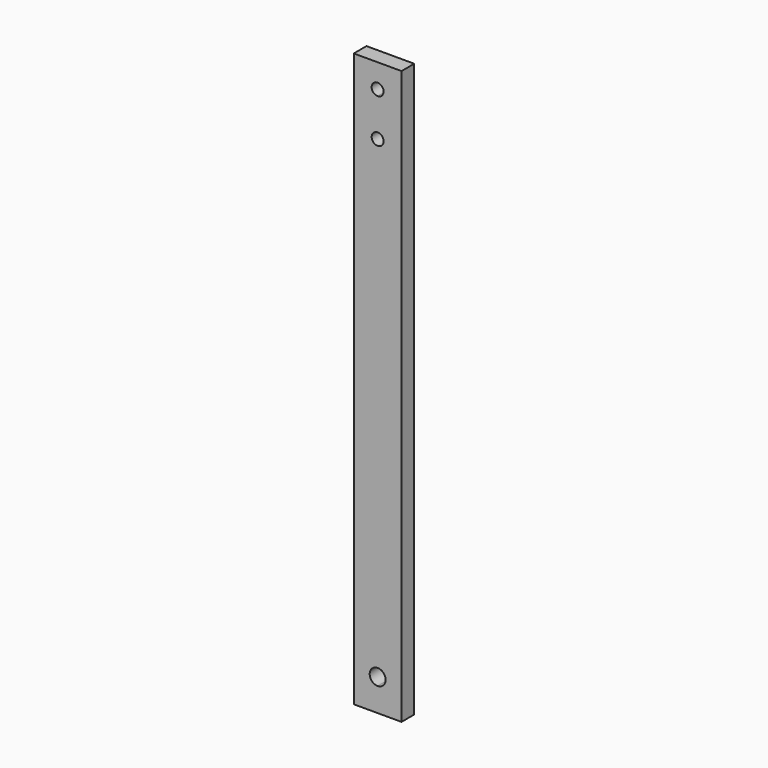
from build123d import *

# Parameters (mm, degrees)
F1_DEPTH = 12.7


with BuildPart() as f1:
    # F0 (on Front) → F1 (new body)
    with BuildSketch(Plane.XZ):
        with BuildLine():
            ThreePointArc((1.682054, -2.059439), (-9.158074, 2.430689), (-4.667946, -8.409439))
            ThreePointArc((-4.667946, -8.409439), (-0.177818, -6.549567), (1.682054, -2.059439))
        make_face()
        with BuildLine():
            ThreePointArc((0.094554, 375.765561), (-1.30035, 379.133157), (-4.667946, 380.528061))
            ThreePointArc((-4.667946, 380.528061), (-8.035542, 372.397965), (0.094554, 375.765561))
        make_face()
        Polygon((-4.667946, 429.740561), (-23.717946, 429.740561), (-23.717946, -27.459439), (-4.667946, -27.459439), (14.382054, -27.459439), (14.382054, 429.740561), align=None)
        with BuildLine():
            ThreePointArc((1.682054, -2.059439), (-0.177818, -6.549567), (-4.667946, -8.409439))
            ThreePointArc((-4.667946, -8.409439), (-9.158074, 2.430689), (1.682054, -2.059439))
        make_face(mode=Mode.SUBTRACT)
        with BuildLine():
            ThreePointArc((0.094554, 375.765561), (-8.035542, 372.397965), (-4.667946, 380.528061))
            ThreePointArc((-4.667946, 380.528061), (-1.30035, 379.133157), (0.094554, 375.765561))
        make_face(mode=Mode.SUBTRACT)
        with BuildLine():
            ThreePointArc((-4.667946, 405.928061), (-9.430446, 410.690561), (-4.667946, 415.453061))
            ThreePointArc((-4.667946, 415.453061), (-1.30035, 414.058157), (0.094554, 410.690561))
            ThreePointArc((0.094554, 410.690561), (-1.30035, 407.322965), (-4.667946, 405.928061))
        make_face(mode=Mode.SUBTRACT)
    extrude(amount=F1_DEPTH)


solid = f1.part
